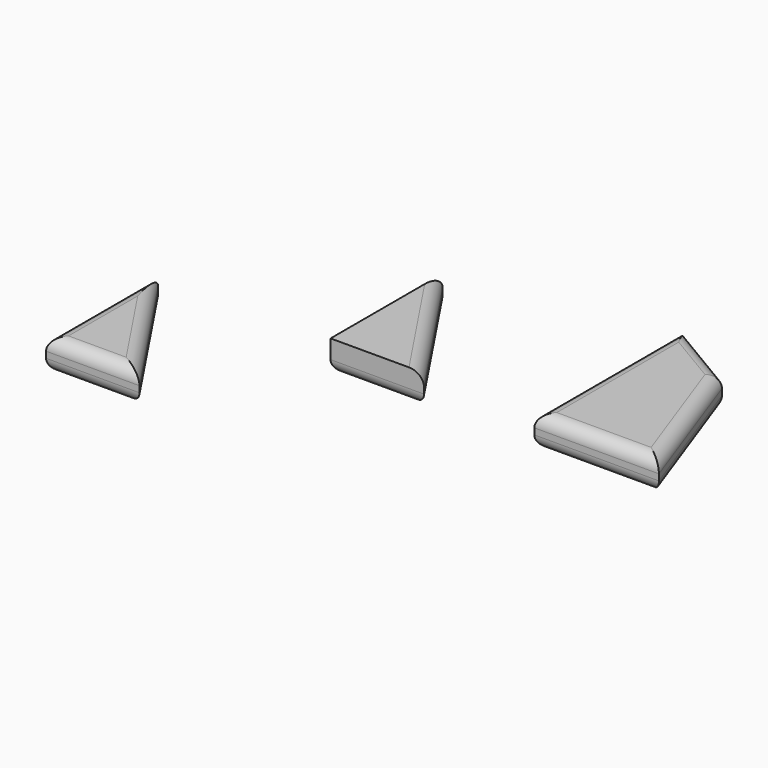
from build123d import *

# Parameters (mm, degrees)
F1_DEPTH = 6.35
F2_R     = 2.54
F4_DEPTH = 6.35
F5_R     = 2.54


with BuildPart() as f1:
    # F0 (on Top) → F1 (new body)
    with BuildSketch(Plane.XY):
        Polygon((0, 38.1), (0, 0), (25.4, 0), (14.856788, 29.249305), align=None)
    extrude(amount=F1_DEPTH)

    # F2
    f2_edges = [f1.edges().sort_by_distance(p)[0] for p in [
        (7.428394, 33.674652, 6.35),
        (0, 19.05, 6.35),
        (12.7, 0, 6.35),
        (20.128394, 14.624652, 6.35),
        (7.428394, 33.674652, 0),
        (0, 19.05, 0),
        (12.7, 0, 0),
        (20.128394, 14.624652, 0),
    ]]
    fillet(f2_edges, radius=F2_R)


with BuildPart() as f4:
    # F3 (on Top) → F4 (new body)
    with BuildSketch(Plane.XY):
        Polygon((-41.563635, 28.575), (-41.563635, 0), (-22.513635, 0), align=None)
        Polygon((-77.229266, 0.633772), (-77.229266, -27.941228), (-58.179266, -27.941228), align=None)
    extrude(amount=F4_DEPTH)

    # F5
    f5_edges = [f4.edges().sort_by_distance(p)[0] for p in [
        (-67.704266, -13.653728, 6.35),
        (-77.229266, -13.653728, 6.35),
        (-67.704266, -27.941228, 6.35),
        (-32.038635, 14.2875, 6.35),
        (-67.704266, -13.653728, 0),
        (-32.038635, 14.2875, 0),
        (-32.038635, 0, 0),
        (-77.229266, -13.653728, 0),
        (-67.704266, -27.941228, 0),
        (-41.563635, 14.2875, 0),
    ]]
    fillet(f5_edges, radius=F5_R)


solid = Compound([f1.part, f4.part])
